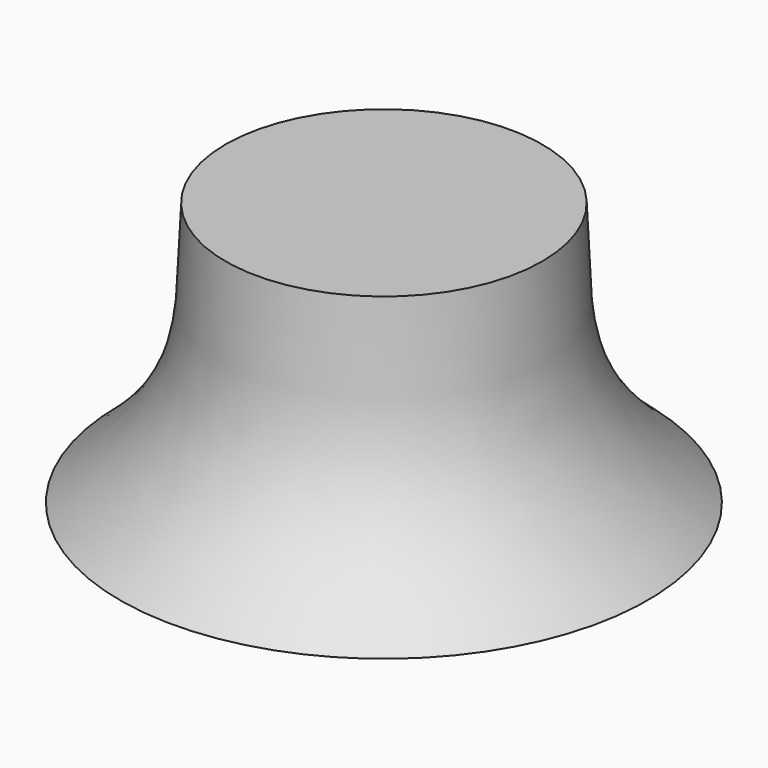
from build123d import *

# Parameters (mm, degrees)
F2_R     = 25
F3_DEPTH = 30


with BuildPart() as f1:
    # F0 (on Front) → F1 (revolve)
    with BuildSketch(Plane.XZ):
        with BuildLine():
            Line((-50, 0), (0, 0))
            Line((0, 0), (0, 50))
            Line((0, 50), (-30, 50))
            add(Edge.make_bspline(
                [(-30, 50), (-30.4801908734, 40.8512933377), (-29.7165767129, 22.08511213), (-41.056758415, 7.5161224678), (-50, 0)],
                knots=[0, 0, 0, 0, 0.488096626, 1, 1, 1, 1], degree=3))
        make_face()
    revolve(axis=Axis((0, 0, 25), (0, 0, 1)))

    # F2 (on Top) → F3 (cut)
    with BuildSketch(Plane.XY):
        Circle(F2_R)
    extrude(amount=F3_DEPTH, mode=Mode.SUBTRACT)


solid = f1.part
